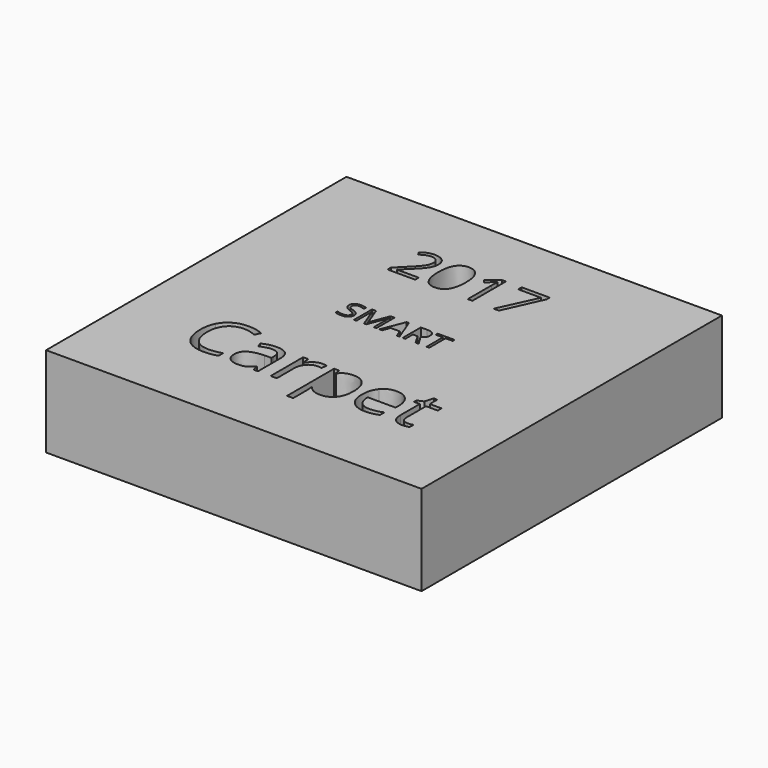
from build123d import *

# Parameters (mm, degrees)
F0_W     = 25
F0_H     = 25
F1_DEPTH = 6


with BuildPart() as f1:
    # F0 (on Top) → F1 (new body)
    with BuildSketch(Plane.XY):
        Rectangle(F0_W, F0_H)
        with BuildLine():
            add(Edge.make_bspline(
                [(-5.1400088832, -4.3846700115), (-5.5498198687, -4.1927931917), (-5.9596308543, -4.1927931917)],
                knots=[0, 0, 0, 1, 1, 1], degree=2))
            add(Edge.make_bspline(
                [(-5.9596308543, -4.1927931917), (-6.5542121107, -4.1927931917), (-6.8984849233, -4.5887858878)],
                knots=[0, 0, 0, 1, 1, 1], degree=2))
            add(Edge.make_bspline(
                [(-6.8984849233, -4.5887858878), (-7.2427577358, -4.9847785838), (-7.2427577358, -5.6733242088)],
                knots=[0, 0, 0, 1, 1, 1], degree=2))
            add(Edge.make_bspline(
                [(-7.2427577358, -5.6733242088), (-7.2427577358, -6.3808206309), (-6.9107239797, -6.7673379284)],
                knots=[0, 0, 0, 1, 1, 1], degree=2))
            add(Edge.make_bspline(
                [(-6.9107239797, -6.7673379284), (-6.5786902236, -7.153855226), (-5.9643685535, -7.153855226)],
                knots=[0, 0, 0, 1, 1, 1], degree=2))
            add(Edge.make_bspline(
                [(-5.9643685535, -7.153855226), (-5.5869318462, -7.153855226), (-5.1028969057, -7.0180411807)],
                knots=[0, 0, 0, 1, 1, 1], degree=2))
            Line((-5.1028969057, -7.0180411807), (-5.1028969057, -7.3852128729))
            add(Edge.make_bspline(
                [(-5.1028969057, -7.3852128729), (-5.4779647634, -7.526554234), (-6.0283274935, -7.526554234)],
                knots=[0, 0, 0, 1, 1, 1], degree=2))
            add(Edge.make_bspline(
                [(-6.0283274935, -7.526554234), (-6.8250505848, -7.526554234), (-7.2581552584, -7.0425192935)],
                knots=[0, 0, 0, 1, 1, 1], degree=2))
            add(Edge.make_bspline(
                [(-7.2581552584, -7.0425192935), (-7.6912599319, -6.5584843529), (-7.6912599319, -5.667796893)],
                knots=[0, 0, 0, 1, 1, 1], degree=2))
            add(Edge.make_bspline(
                [(-7.6912599319, -5.667796893), (-7.6912599319, -5.1103276141), (-7.4828011647, -4.69104123)],
                knots=[0, 0, 0, 1, 1, 1], degree=2))
            add(Edge.make_bspline(
                [(-7.4828011647, -4.69104123), (-7.2743423975, -4.271754846), (-6.8807185511, -4.04474009)],
                knots=[0, 0, 0, 1, 1, 1], degree=2))
            add(Edge.make_bspline(
                [(-6.8807185511, -4.04474009), (-6.4870947046, -3.817725334), (-5.9541035385, -3.817725334)],
                knots=[0, 0, 0, 1, 1, 1], degree=2))
            add(Edge.make_bspline(
                [(-5.9541035385, -3.817725334), (-5.387158861, -3.817725334), (-4.9623451611, -4.0246048682)],
                knots=[0, 0, 0, 1, 1, 1], degree=2))
            Line((-4.9623451611, -4.0246048682), (-5.1400088832, -4.3846700115))
        make_face(mode=Mode.SUBTRACT)
        with BuildLine():
            Line((-2.4103044959, -7.4768083918), (-2.7143068647, -7.4768083918))
            Line((-2.7143068647, -7.4768083918), (-2.7956373686, -7.0914755191))
            Line((-2.7956373686, -7.0914755191), (-2.8153777822, -7.0914755191))
            add(Edge.make_bspline(
                [(-2.8153777822, -7.0914755191), (-3.017519617, -7.3457320458), (-3.2184770271, -7.4361431399)],
                knots=[0, 0, 0, 1, 1, 1], degree=2))
            add(Edge.make_bspline(
                [(-3.2184770271, -7.4361431399), (-3.4194344372, -7.526554234), (-3.7210679564, -7.526554234)],
                knots=[0, 0, 0, 1, 1, 1], degree=2))
            add(Edge.make_bspline(
                [(-3.7210679564, -7.526554234), (-4.1229827765, -7.526554234), (-4.3511819573, -7.3188850833)],
                knots=[0, 0, 0, 1, 1, 1], degree=2))
            add(Edge.make_bspline(
                [(-4.3511819573, -7.3188850833), (-4.579381138, -7.1112159327), (-4.579381138, -6.7290415261)],
                knots=[0, 0, 0, 1, 1, 1], degree=2))
            add(Edge.make_bspline(
                [(-4.579381138, -6.7290415261), (-4.579381138, -5.9102091716), (-3.2694072941, -5.8707283445)],
                knots=[0, 0, 0, 1, 1, 1], degree=2))
            Line((-3.2694072941, -5.8707283445), (-2.8106400829, -5.8557256301))
            Line((-2.8106400829, -5.8557256301), (-2.8106400829, -5.6875373066))
            add(Edge.make_bspline(
                [(-2.8106400829, -5.6875373066), (-2.8106400829, -5.36932184), (-2.9472437448, -5.2177154638)],
                knots=[0, 0, 0, 1, 1, 1], degree=2))
            add(Edge.make_bspline(
                [(-2.9472437448, -5.2177154638), (-3.0838474066, -5.0661090877), (-3.3854809258, -5.0661090877)],
                knots=[0, 0, 0, 1, 1, 1], degree=2))
            add(Edge.make_bspline(
                [(-3.3854809258, -5.0661090877), (-3.723436806, -5.0661090877), (-4.1498297389, -5.2729886218)],
                knots=[0, 0, 0, 1, 1, 1], degree=2))
            Line((-4.1498297389, -5.2729886218), (-4.2761683857, -4.9595108544))
            add(Edge.make_bspline(
                [(-4.2761683857, -4.9595108544), (-4.0763954005, -4.8513333881), (-3.8383260129, -4.7897432978)],
                knots=[0, 0, 0, 1, 1, 1], degree=2))
            add(Edge.make_bspline(
                [(-3.8383260129, -4.7897432978), (-3.6002566254, -4.7281532075), (-3.3602131965, -4.7281532075)],
                knots=[0, 0, 0, 1, 1, 1], degree=2))
            add(Edge.make_bspline(
                [(-3.3602131965, -4.7281532075), (-2.8769678725, -4.7281532075), (-2.6436361842, -4.9425340988)],
                knots=[0, 0, 0, 1, 1, 1], degree=2))
            add(Edge.make_bspline(
                [(-2.6436361842, -4.9425340988), (-2.4103044959, -5.1569149901), (-2.4103044959, -5.6306849155)],
                knots=[0, 0, 0, 1, 1, 1], degree=2))
            Line((-2.4103044959, -5.6306849155), (-2.4103044959, -7.4768083918))
        make_face(mode=Mode.SUBTRACT)
        with BuildLine():
            add(Edge.make_bspline(
                [(-0.7994867492, -4.8659412942), (-0.5870798993, -4.7226258917), (-0.3328233726, -4.7226258917)],
                knots=[0, 0, 0, 1, 1, 1], degree=2))
            add(Edge.make_bspline(
                [(-0.3328233726, -4.7226258917), (-0.152790801, -4.7226258917), (-0.0098702068, -4.7526313203)],
                knots=[0, 0, 0, 1, 1, 1], degree=2))
            Line((-0.0098702068, -4.7526313203), (-0.0667225978, -5.1324368772))
            add(Edge.make_bspline(
                [(-0.0667225978, -5.1324368772), (-0.2341213048, -5.0953248998), (-0.3628288013, -5.0953248998)],
                knots=[0, 0, 0, 1, 1, 1], degree=2))
            add(Edge.make_bspline(
                [(-0.3628288013, -5.0953248998), (-0.6913092829, -5.0953248998), (-0.924246163, -5.3618204828)],
                knots=[0, 0, 0, 1, 1, 1], degree=2))
            add(Edge.make_bspline(
                [(-0.924246163, -5.3618204828), (-1.157183043, -5.6283160659), (-1.157183043, -6.0254931868)],
                knots=[0, 0, 0, 1, 1, 1], degree=2))
            Line((-1.157183043, -6.0254931868), (-1.157183043, -7.4768083918))
            Line((-1.157183043, -7.4768083918), (-1.5669940285, -7.4768083918))
            Line((-1.5669940285, -7.4768083918), (-1.5669940285, -4.7723717339))
            Line((-1.5669940285, -4.7723717339), (-1.2290381483, -4.7723717339))
            Line((-1.2290381483, -4.7723717339), (-1.1816611558, -5.2729886218))
            Line((-1.1816611558, -5.2729886218), (-1.1619207422, -5.2729886218))
            add(Edge.make_bspline(
                [(-1.1619207422, -5.2729886218), (-1.0118935992, -5.0092566966), (-0.7994867492, -4.8659412942)],
                knots=[0, 0, 0, 1, 1, 1], degree=2))
        make_face(mode=Mode.SUBTRACT)
        with BuildLine():
            add(Edge.make_bspline(
                [(2.5804668608, -7.1574085004), (2.2831762325, -7.526554234), (1.7549227656, -7.526554234)],
                knots=[0, 0, 0, 1, 1, 1], degree=2))
            add(Edge.make_bspline(
                [(1.7549227656, -7.526554234), (1.4904012239, -7.526554234), (1.2720722499, -7.429036591)],
                knots=[0, 0, 0, 1, 1, 1], degree=2))
            add(Edge.make_bspline(
                [(1.2720722499, -7.429036591), (1.0537432759, -7.331518948), (0.9060849825, -7.1285874966)],
                knots=[0, 0, 0, 1, 1, 1], degree=2))
            Line((0.9060849825, -7.1285874966), (0.8760795539, -7.1285874966))
            add(Edge.make_bspline(
                [(0.8760795539, -7.1285874966), (0.9060849825, -7.3654724593), (0.9060849825, -7.5778793093)],
                knots=[0, 0, 0, 1, 1, 1], degree=2))
            Line((0.9060849825, -7.5778793093), (0.9060849825, -8.6912386341))
            Line((0.9060849825, -8.6912386341), (0.4962739969, -8.6912386341))
            Line((0.4962739969, -8.6912386341), (0.4962739969, -4.7723717339))
            Line((0.4962739969, -4.7723717339), (0.8294921779, -4.7723717339))
            Line((0.8294921779, -4.7723717339), (0.8863445689, -5.1427018923))
            Line((0.8863445689, -5.1427018923), (0.9060849825, -5.1427018923))
            add(Edge.make_bspline(
                [(0.9060849825, -5.1427018923), (1.064008291, -4.9200300273), (1.273651483, -4.8213279595)],
                knots=[0, 0, 0, 1, 1, 1], degree=2))
            add(Edge.make_bspline(
                [(1.273651483, -4.8213279595), (1.483294675, -4.7226258917), (1.7549227656, -4.7226258917)],
                knots=[0, 0, 0, 1, 1, 1], degree=2))
            add(Edge.make_bspline(
                [(1.7549227656, -4.7226258917), (2.2926516311, -4.7226258917), (2.58520456, -5.0905872005)],
                knots=[0, 0, 0, 1, 1, 1], degree=2))
            add(Edge.make_bspline(
                [(2.58520456, -5.0905872005), (2.877757489, -5.4585485093), (2.877757489, -6.121826405)],
                knots=[0, 0, 0, 1, 1, 1], degree=2))
            add(Edge.make_bspline(
                [(2.877757489, -6.121826405), (2.877757489, -6.7882627668), (2.5804668608, -7.1574085004)],
                knots=[0, 0, 0, 1, 1, 1], degree=2))
        make_face(mode=Mode.SUBTRACT)
        with BuildLine():
            add(Edge.make_bspline(
                [(5.2031782066, -7.4854941738), (5.0097221537, -7.526554234), (4.7357252134, -7.526554234)],
                knots=[0, 0, 0, 1, 1, 1], degree=2))
            add(Edge.make_bspline(
                [(4.7357252134, -7.526554234), (4.1364062577, -7.526554234), (3.7893697873, -7.1609617748)],
                knots=[0, 0, 0, 1, 1, 1], degree=2))
            add(Edge.make_bspline(
                [(3.7893697873, -7.1609617748), (3.4423333169, -6.7953693157), (3.4423333169, -6.1470941343)],
                knots=[0, 0, 0, 1, 1, 1], degree=2))
            add(Edge.make_bspline(
                [(3.4423333169, -6.1470941343), (3.4423333169, -5.4925020206), (3.7644968662, -5.1075639562)],
                knots=[0, 0, 0, 1, 1, 1], degree=2))
            add(Edge.make_bspline(
                [(3.7644968662, -5.1075639562), (4.0866604155, -4.7226258917), (4.6299165968, -4.7226258917)],
                knots=[0, 0, 0, 1, 1, 1], degree=2))
            add(Edge.make_bspline(
                [(4.6299165968, -4.7226258917), (5.1376400336, -4.7226258917), (5.433746237, -5.0570284974)],
                knots=[0, 0, 0, 1, 1, 1], degree=2))
            add(Edge.make_bspline(
                [(5.433746237, -5.0570284974), (5.7298524404, -5.3914311032), (5.7298524404, -5.9394249837)],
                knots=[0, 0, 0, 1, 1, 1], degree=2))
            Line((5.7298524404, -5.9394249837), (5.7298524404, -6.1984192096))
            Line((5.7298524404, -6.1984192096), (3.8671470167, -6.1984192096))
            add(Edge.make_bspline(
                [(3.8671470167, -6.1984192096), (3.8797808814, -6.6745579847), (4.1079800622, -6.9213131542)],
                knots=[0, 0, 0, 1, 1, 1], degree=2))
            add(Edge.make_bspline(
                [(4.1079800622, -6.9213131542), (4.336179243, -7.1680683237), (4.7507279278, -7.1680683237)],
                knots=[0, 0, 0, 1, 1, 1], degree=2))
            add(Edge.make_bspline(
                [(4.7507279278, -7.1680683237), (5.1873858757, -7.1680683237), (5.6137788087, -6.9856669024)],
                knots=[0, 0, 0, 1, 1, 1], degree=2))
            Line((5.6137788087, -6.9856669024), (5.6137788087, -7.3512593616))
            add(Edge.make_bspline(
                [(5.6137788087, -7.3512593616), (5.3966342595, -7.4444341136), (5.2031782066, -7.4854941738)],
                knots=[0, 0, 0, 1, 1, 1], degree=2))
        make_face(mode=Mode.SUBTRACT)
        with BuildLine():
            add(Edge.make_bspline(
                [(6.9837635098, -7.0571271995), (7.0998371416, -7.1878087373), (7.3019789765, -7.1878087373)],
                knots=[0, 0, 0, 1, 1, 1], degree=2))
            add(Edge.make_bspline(
                [(7.3019789765, -7.1878087373), (7.4109460593, -7.1878087373), (7.5120169768, -7.1720164064)],
                knots=[0, 0, 0, 1, 1, 1], degree=2))
            add(Edge.make_bspline(
                [(7.5120169768, -7.1720164064), (7.6130878942, -7.1562240756), (7.6723091349, -7.1388525117)],
                knots=[0, 0, 0, 1, 1, 1], degree=2))
            Line((7.6723091349, -7.1388525117), (7.6723091349, -7.452330279))
            add(Edge.make_bspline(
                [(7.6723091349, -7.452330279), (7.6059813453, -7.4839149407), (7.4764842323, -7.5052345874)],
                knots=[0, 0, 0, 1, 1, 1], degree=2))
            add(Edge.make_bspline(
                [(7.4764842323, -7.5052345874), (7.3469871194, -7.526554234), (7.2427577358, -7.526554234)],
                knots=[0, 0, 0, 1, 1, 1], degree=2))
            add(Edge.make_bspline(
                [(7.2427577358, -7.526554234), (6.4586685091, -7.526554234), (6.4586685091, -6.699825714)],
                knots=[0, 0, 0, 1, 1, 1], degree=2))
            Line((6.4586685091, -6.699825714), (6.4586685091, -5.0905872005))
            Line((6.4586685091, -5.0905872005), (6.0709667868, -5.0905872005))
            Line((6.0709667868, -5.0905872005), (6.0709667868, -4.8931830649))
            Line((6.0709667868, -4.8931830649), (6.4586685091, -4.7226258917))
            Line((6.4586685091, -4.7226258917), (6.6308049154, -4.1454161992))
            Line((6.6308049154, -4.1454161992), (6.8676898781, -4.1454161992))
            Line((6.8676898781, -4.1454161992), (6.8676898781, -4.7723717339))
            Line((6.8676898781, -4.7723717339), (7.6525687213, -4.7723717339))
            Line((7.6525687213, -4.7723717339), (7.6525687213, -5.0905872005))
            Line((7.6525687213, -5.0905872005), (6.8676898781, -5.0905872005))
            Line((6.8676898781, -5.0905872005), (6.8676898781, -6.6824541501))
            add(Edge.make_bspline(
                [(6.8676898781, -6.6824541501), (6.8676898781, -6.9264456617), (6.9837635098, -7.0571271995)],
                knots=[0, 0, 0, 1, 1, 1], degree=2))
        make_face(mode=Mode.SUBTRACT)
        with BuildLine():
            add(Edge.make_bspline(
                [(-2.5302458359, 0.8150735652), (-2.4410654461, 0.7179660297), (-2.4410654461, 0.5633866875)],
                knots=[0, 0, 0, 1, 1, 1], degree=2))
            add(Edge.make_bspline(
                [(-2.4410654461, 0.5633866875), (-2.4410654461, 0.3642171504), (-2.5855707073, 0.2525765143)],
                knots=[0, 0, 0, 1, 1, 1], degree=2))
            add(Edge.make_bspline(
                [(-2.5855707073, 0.2525765143), (-2.7300759685, 0.1409358782), (-2.9777992733, 0.1409358782)],
                knots=[0, 0, 0, 1, 1, 1], degree=2))
            add(Edge.make_bspline(
                [(-2.9777992733, 0.1409358782), (-3.2460010381, 0.1409358782), (-3.3906714481, 0.2102984036)],
                knots=[0, 0, 0, 1, 1, 1], degree=2))
            Line((-3.3906714481, 0.2102984036), (-3.3906714481, 0.3794108464))
            add(Edge.make_bspline(
                [(-3.3906714481, 0.3794108464), (-3.2975274855, 0.3404357131), (-3.1881989336, 0.317645169)],
                knots=[0, 0, 0, 1, 1, 1], degree=2))
            add(Edge.make_bspline(
                [(-3.1881989336, 0.317645169), (-3.0788703817, 0.294854625), (-2.9715236163, 0.294854625)],
                knots=[0, 0, 0, 1, 1, 1], degree=2))
            add(Edge.make_bspline(
                [(-2.9715236163, 0.294854625), (-2.7961355164, 0.294854625), (-2.7072854244, 0.3614096196)],
                knots=[0, 0, 0, 1, 1, 1], degree=2))
            add(Edge.make_bspline(
                [(-2.7072854244, 0.3614096196), (-2.6184353324, 0.4279646141), (-2.6184353324, 0.5468718005)],
                knots=[0, 0, 0, 1, 1, 1], degree=2))
            add(Edge.make_bspline(
                [(-2.6184353324, 0.5468718005), (-2.6184353324, 0.6251523648), (-2.6499787666, 0.6751924724)],
                knots=[0, 0, 0, 1, 1, 1], degree=2))
            add(Edge.make_bspline(
                [(-2.6499787666, 0.6751924724), (-2.6815222007, 0.72523258), (-2.7553437456, 0.7676758396)],
                knots=[0, 0, 0, 1, 1, 1], degree=2))
            add(Edge.make_bspline(
                [(-2.7553437456, 0.7676758396), (-2.8291652904, 0.8101190991), (-2.9797810598, 0.863627333)],
                knots=[0, 0, 0, 1, 1, 1], degree=2))
            add(Edge.make_bspline(
                [(-2.9797810598, 0.863627333), (-3.19018072, 0.9389352176), (-3.2805171519, 1.0421532613)],
                knots=[0, 0, 0, 1, 1, 1], degree=2))
            add(Edge.make_bspline(
                [(-3.2805171519, 1.0421532613), (-3.3708535837, 1.145371305), (-3.3708535837, 1.3115110682)],
                knots=[0, 0, 0, 1, 1, 1], degree=2))
            add(Edge.make_bspline(
                [(-3.3708535837, 1.3115110682), (-3.3708535837, 1.4859082748), (-3.2398905299, 1.5891263185)],
                knots=[0, 0, 0, 1, 1, 1], degree=2))
            add(Edge.make_bspline(
                [(-3.2398905299, 1.5891263185), (-3.1089274761, 1.6923443622), (-2.8929127542, 1.6923443622)],
                knots=[0, 0, 0, 1, 1, 1], degree=2))
            add(Edge.make_bspline(
                [(-2.8929127542, 1.6923443622), (-2.6679799934, 1.6923443622), (-2.4790496862, 1.6097699272)],
                knots=[0, 0, 0, 1, 1, 1], degree=2))
            Line((-2.4790496862, 1.6097699272), (-2.533879111, 1.4571723714))
            add(Edge.make_bspline(
                [(-2.533879111, 1.4571723714), (-2.7208276318, 1.5354529358), (-2.8972066248, 1.5354529358)],
                knots=[0, 0, 0, 1, 1, 1], degree=2))
            add(Edge.make_bspline(
                [(-2.8972066248, 1.5354529358), (-3.036592271, 1.5354529358), (-3.1150379842, 1.4756690449)],
                knots=[0, 0, 0, 1, 1, 1], degree=2))
            add(Edge.make_bspline(
                [(-3.1150379842, 1.4756690449), (-3.1934836974, 1.4158851539), (-3.1934836974, 1.3095292817)],
                knots=[0, 0, 0, 1, 1, 1], degree=2))
            add(Edge.make_bspline(
                [(-3.1934836974, 1.3095292817), (-3.1934836974, 1.2312487174), (-3.1645826452, 1.1810434609)],
                knots=[0, 0, 0, 1, 1, 1], degree=2))
            add(Edge.make_bspline(
                [(-3.1645826452, 1.1810434609), (-3.135681593, 1.1308382045), (-3.0669796631, 1.0890555404)],
                knots=[0, 0, 0, 1, 1, 1], degree=2))
            add(Edge.make_bspline(
                [(-3.0669796631, 1.0890555404), (-2.9982777332, 1.0472728763), (-2.8569103006, 0.9967373221)],
                knots=[0, 0, 0, 1, 1, 1], degree=2))
            add(Edge.make_bspline(
                [(-2.8569103006, 0.9967373221), (-2.6194262256, 0.9121811007), (-2.5302458359, 0.8150735652)],
                knots=[0, 0, 0, 1, 1, 1], degree=2))
        make_face(mode=Mode.SUBTRACT)
        with BuildLine():
            Line((-1.3230075968, 0.1617446359), (-1.4643750295, 0.1617446359))
            Line((-1.4643750295, 0.1617446359), (-1.9763365262, 1.4994504821))
            Line((-1.9763365262, 1.4994504821), (-1.9845939697, 1.4994504821))
            add(Edge.make_bspline(
                [(-1.9845939697, 1.4994504821), (-1.9700608692, 1.3405772693), (-1.9700608692, 1.1215898678)],
                knots=[0, 0, 0, 1, 1, 1], degree=2))
            Line((-1.9700608692, 1.1215898678), (-1.9700608692, 0.1617446359))
            Line((-1.9700608692, 0.1617446359), (-2.1322370594, 0.1617446359))
            Line((-2.1322370594, 0.1617446359), (-2.1322370594, 1.6708750091))
            Line((-2.1322370594, 1.6708750091), (-1.8679988676, 1.6708750091))
            Line((-1.8679988676, 1.6708750091), (-1.390058038, 0.4259828277))
            Line((-1.390058038, 0.4259828277), (-1.3818005945, 0.4259828277))
            Line((-1.3818005945, 0.4259828277), (-0.8998961921, 1.6708750091))
            Line((-0.8998961921, 1.6708750091), (-0.6376397867, 1.6708750091))
            Line((-0.6376397867, 1.6708750091), (-0.6376397867, 0.1617446359))
            Line((-0.6376397867, 0.1617446359), (-0.8130278866, 0.1617446359))
            Line((-0.8130278866, 0.1617446359), (-0.8130278866, 1.1341411819))
            add(Edge.make_bspline(
                [(-0.8130278866, 1.1341411819), (-0.8130278866, 1.3012718382), (-0.798494786, 1.4974686957)],
                knots=[0, 0, 0, 1, 1, 1], degree=2))
            Line((-0.798494786, 1.4974686957), (-0.8067522295, 1.4974686957))
            Line((-0.8067522295, 1.4974686957), (-1.3230075968, 0.1617446359))
        make_face(mode=Mode.SUBTRACT)
        with BuildLine():
            Line((-2.4733804156, 5.9777264702), (-2.4733804156, 5.6837566209))
            Line((-2.4733804156, 5.6837566209), (-4.3087056906, 5.6837566209))
            Line((-4.3087056906, 5.6837566209), (-4.3087056906, 5.9569468966))
            Line((-4.3087056906, 5.9569468966), (-3.5734754855, 6.6958440853))
            add(Edge.make_bspline(
                [(-3.5734754855, 6.6958440853), (-3.2373353253, 7.036262393), (-3.1303816379, 7.1814138259)],
                knots=[0, 0, 0, 1, 1, 1], degree=2))
            add(Edge.make_bspline(
                [(-3.1303816379, 7.1814138259), (-3.0234279506, 7.3265652587), (-2.9699511069, 7.4640771425)],
                knots=[0, 0, 0, 1, 1, 1], degree=2))
            add(Edge.make_bspline(
                [(-2.9699511069, 7.4640771425), (-2.9164742632, 7.6015890262), (-2.9164742632, 7.7598804835)],
                knots=[0, 0, 0, 1, 1, 1], degree=2))
            add(Edge.make_bspline(
                [(-2.9164742632, 7.7598804835), (-2.9164742632, 7.9835664811), (-3.0521526552, 8.1143555616)],
                knots=[0, 0, 0, 1, 1, 1], degree=2))
            add(Edge.make_bspline(
                [(-3.0521526552, 8.1143555616), (-3.1878310471, 8.2451446421), (-3.4286296347, 8.2451446421)],
                knots=[0, 0, 0, 1, 1, 1], degree=2))
            add(Edge.make_bspline(
                [(-3.4286296347, 8.2451446421), (-3.6022001901, 8.2451446421), (-3.7580469917, 8.1876952329)],
                knots=[0, 0, 0, 1, 1, 1], degree=2))
            add(Edge.make_bspline(
                [(-3.7580469917, 8.1876952329), (-3.9138937933, 8.1302458237), (-4.1045769387, 7.9792883336)],
                knots=[0, 0, 0, 1, 1, 1], degree=2))
            Line((-4.1045769387, 7.9792883336), (-4.2726470189, 8.1950292001))
            add(Edge.make_bspline(
                [(-4.2726470189, 8.1950292001), (-3.8870025805, 8.5158902621), (-3.4322966182, 8.5158902621)],
                knots=[0, 0, 0, 1, 1, 1], degree=2))
            add(Edge.make_bspline(
                [(-3.4322966182, 8.5158902621), (-3.0387070488, 8.5158902621), (-2.8153266332, 8.3145117479)],
                knots=[0, 0, 0, 1, 1, 1], degree=2))
            add(Edge.make_bspline(
                [(-2.8153266332, 8.3145117479), (-2.5919462176, 8.1131332337), (-2.5919462176, 7.7733260899)],
                knots=[0, 0, 0, 1, 1, 1], degree=2))
            add(Edge.make_bspline(
                [(-2.5919462176, 7.7733260899), (-2.5919462176, 7.5074697813), (-2.7410702159, 7.247725112)],
                knots=[0, 0, 0, 1, 1, 1], degree=2))
            add(Edge.make_bspline(
                [(-2.7410702159, 7.247725112), (-2.8901942143, 6.9879804428), (-3.298451718, 6.5907238897)],
                knots=[0, 0, 0, 1, 1, 1], degree=2))
            Line((-3.298451718, 6.5907238897), (-3.9096156458, 5.9930055684))
            Line((-3.9096156458, 5.9930055684), (-3.9096156458, 5.9777264702))
            Line((-3.9096156458, 5.9777264702), (-2.4733804156, 5.9777264702))
        make_face(mode=Mode.SUBTRACT)
        with BuildLine():
            add(Edge.make_bspline(
                [(-0.4577617819, 8.1513309792), (-0.2218525058, 7.7824935488), (-0.2218525058, 7.0839331794)],
                knots=[0, 0, 0, 1, 1, 1], degree=2))
            add(Edge.make_bspline(
                [(-0.2218525058, 7.0839331794), (-0.2218525058, 6.359703925), (-0.4501222328, 6.0024786093)],
                knots=[0, 0, 0, 1, 1, 1], degree=2))
            add(Edge.make_bspline(
                [(-0.4501222328, 6.0024786093), (-0.6783919598, 5.6452532935), (-1.1483770202, 5.6452532935)],
                knots=[0, 0, 0, 1, 1, 1], degree=2))
            add(Edge.make_bspline(
                [(-1.1483770202, 5.6452532935), (-1.598804835, 5.6452532935), (-1.8337973652, 6.0110349043)],
                knots=[0, 0, 0, 1, 1, 1], degree=2))
            add(Edge.make_bspline(
                [(-1.8337973652, 6.0110349043), (-2.0687898954, 6.376816515), (-2.0687898954, 7.0839331794)],
                knots=[0, 0, 0, 1, 1, 1], degree=2))
            add(Edge.make_bspline(
                [(-2.0687898954, 7.0839331794), (-2.0687898954, 7.8130517452), (-1.8414369143, 8.1666100774)],
                knots=[0, 0, 0, 1, 1, 1], degree=2))
            add(Edge.make_bspline(
                [(-1.8414369143, 8.1666100774), (-1.6140839332, 8.5201684096), (-1.1483770202, 8.5201684096)],
                knots=[0, 0, 0, 1, 1, 1], degree=2))
            add(Edge.make_bspline(
                [(-1.1483770202, 8.5201684096), (-0.693671058, 8.5201684096), (-0.4577617819, 8.1513309792)],
                knots=[0, 0, 0, 1, 1, 1], degree=2))
        make_face(mode=Mode.SUBTRACT)
        Polygon((0.9065021469, 0.1617446359), (0.72483839, 0.1617446359), (0.5368989761, 0.6416672518), (-0.0678761855, 0.6416672518), (-0.2535035153, 0.1617446359), (-0.4312036993, 0.1617446359), (0.1653140188, 1.6771506661), (0.3129571085, 1.6771506661), align=None, mode=Mode.SUBTRACT)
        with BuildLine():
            Line((1.6044212712, 0.7893103415), (1.2893172274, 0.7893103415))
            Line((1.2893172274, 0.7893103415), (1.2893172274, 0.1617446359))
            Line((1.2893172274, 0.1617446359), (1.1139291275, 0.1617446359))
            Line((1.1139291275, 0.1617446359), (1.1139291275, 1.6708750091))
            Line((1.1139291275, 1.6708750091), (1.5277921955, 1.6708750091))
            add(Edge.make_bspline(
                [(1.5277921955, 1.6708750091), (1.8055725947, 1.6708750091), (1.9381871373, 1.5645191369)],
                knots=[0, 0, 0, 1, 1, 1], degree=2))
            add(Edge.make_bspline(
                [(1.9381871373, 1.5645191369), (2.0708016798, 1.4581632646), (2.0708016798, 1.244460627)],
                knots=[0, 0, 0, 1, 1, 1], degree=2))
            add(Edge.make_bspline(
                [(2.0708016798, 1.244460627), (2.0708016798, 0.9452108747), (1.7672580569, 0.8398458957)],
                knots=[0, 0, 0, 1, 1, 1], degree=2))
            Line((1.7672580569, 0.8398458957), (2.177157552, 0.1617446359))
            Line((2.177157552, 0.1617446359), (1.9697305714, 0.1617446359))
            Line((1.9697305714, 0.1617446359), (1.6044212712, 0.7893103415))
        make_face(mode=Mode.SUBTRACT)
        Polygon((2.8849856085, 1.5149744759), (2.8849856085, 0.1617446359), (2.7095975086, 0.1617446359), (2.7095975086, 1.5149744759), (2.2316566791, 1.5149744759), (2.2316566791, 1.6708750091), (3.362926438, 1.6708750091), (3.362926438, 1.5149744759), align=None, mode=Mode.SUBTRACT)
        with BuildLine():
            Line((1.3378378378, 8.4761646068), (1.3378378378, 5.6837566209))
            Line((1.3378378378, 5.6837566209), (1.0285888904, 5.6837566209))
            Line((1.0285888904, 5.6837566209), (1.0285888904, 7.6737063697))
            add(Edge.make_bspline(
                [(1.0285888904, 7.6737063697), (1.0285888904, 7.9224500883), (1.0438679886, 8.1436914301)],
                knots=[0, 0, 0, 1, 1, 1], degree=2))
            add(Edge.make_bspline(
                [(1.0438679886, 8.1436914301), (1.0041423333, 8.1033546109), (0.9543324732, 8.0596563901)],
                knots=[0, 0, 0, 1, 1, 1], degree=2))
            add(Edge.make_bspline(
                [(0.9543324732, 8.0596563901), (0.9045226131, 8.0159581692), (0.4999320929, 7.6871519761)],
                knots=[0, 0, 0, 1, 1, 1], degree=2))
            Line((0.4999320929, 7.6871519761), (0.3318620128, 7.9047263344))
            Line((0.3318620128, 7.9047263344), (1.0707592014, 8.4761646068))
            Line((1.0707592014, 8.4761646068), (1.3378378378, 8.4761646068))
        make_face(mode=Mode.SUBTRACT)
        Polygon((3.104712753, 5.6837566209), (2.7532934945, 5.6837566209), (3.9102268097, 8.1840282494), (2.3884286296, 8.1840282494), (2.3884286296, 8.4761646068), (4.24636697, 8.4761646068), (4.24636697, 8.2219204129), align=None, mode=Mode.SUBTRACT)
    extrude(amount=F1_DEPTH)


solid = f1.part
